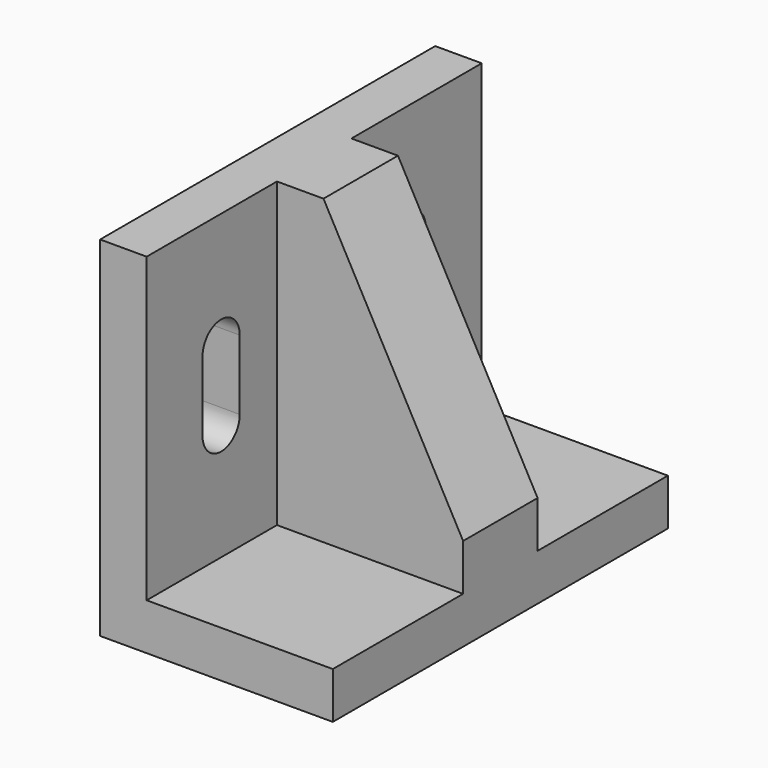
from build123d import *

# Parameters (mm, degrees)
PAD005_DEPTH    = 45
POCKET002_DEPTH = 10.001
PAD006_DEPTH    = 10


with BuildPart() as part:
    # Sketch012 → Pad005 (new body, symmetric)
    with BuildSketch(Plane(origin=(0, -526, 0), x_dir=(1, 0, 0), z_dir=(0, 1, 0))):
        Polygon((2110, -2335), (2110, -2260), (2160, -2260), (2160, -2270), (2120, -2270), (2120, -2335), align=None)
    extrude(amount=PAD005_DEPTH, both=True)

    # Sketch013 (on Face5 of Pad005) → Pocket002 (cut, through all)
    with BuildSketch(Plane(origin=(2120, -526, 0), x_dir=(0, 0, -1), z_dir=(1, 0, 0))):
        with BuildLine():
            ThreePointArc((-2310, -20), (-2315, -25), (-2310, -30))
            Line((-2310, -30), (-2295, -30))
            ThreePointArc((-2295, -30), (-2290, -25), (-2295, -20))
            Line((-2310, -20), (-2295, -20))
        make_face()
        with BuildLine():
            ThreePointArc((-2310, 30), (-2315, 25), (-2310, 20))
            Line((-2310, 20), (-2295, 20))
            ThreePointArc((-2295, 20), (-2290, 25), (-2295, 30))
            Line((-2310, 30), (-2295, 30))
        make_face()
    extrude(amount=-POCKET002_DEPTH, mode=Mode.SUBTRACT)

    # Sketch003 (on DatumPlane) → Pad006 (join, symmetric)
    with BuildSketch(Plane(origin=(0, -526, 0), x_dir=(-1, 0, 0), z_dir=(0, 1, 0))):
        Polygon((-2160, 2270), (-2160, 2280), (-2130, 2335), (-2120, 2335), (-2120, 2270), align=None)
    extrude(amount=PAD006_DEPTH, both=True)


solid = part.part
